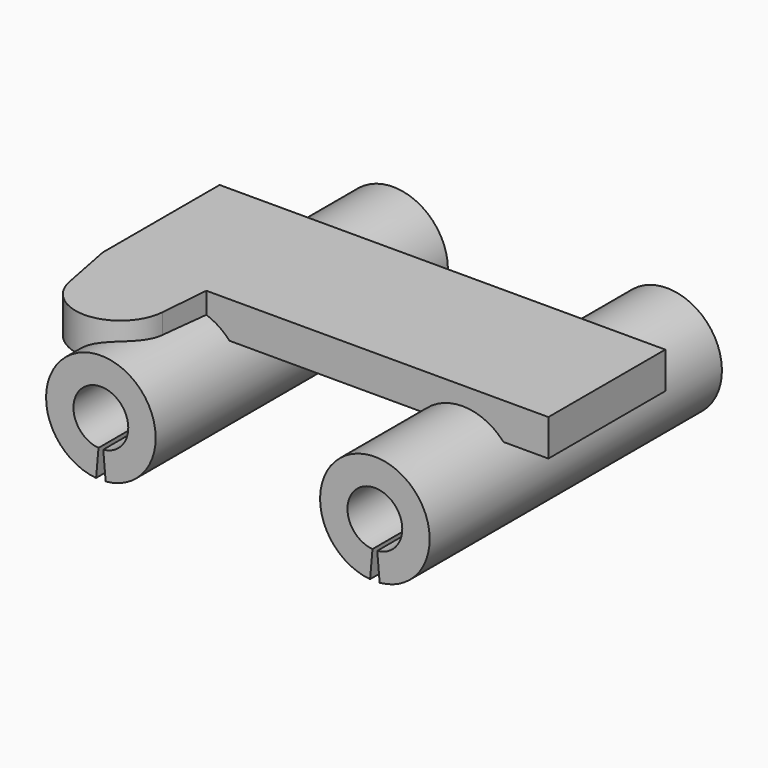
from build123d import *

# Parameters (mm, degrees)
F1_DEPTH = 10
F3_DEPTH = 50


with BuildPart() as f1:
    # F0 (on Top) → F1 (new body)
    with BuildSketch(Plane.XY):
        Polygon((-32.629684, -20), (61, -20), (61, 20), (-61, 20), (-61, -20), align=None)
        with BuildLine():
            Line((-33.740249, -33.694233), (-32.629684, -20))
            Line((-32.629684, -20), (-61, -20))
            Line((-61, -20), (-58.073841, -35.047843))
            ThreePointArc((-58.073841, -35.047843), (-45.316841, -44.981014), (-33.740249, -33.694233))
        make_face()
    extrude(amount=F1_DEPTH)

    # F2 (on Front) → F3 (join, symmetric)
    with BuildSketch(Plane.XZ):
        with BuildLine():
            ThreePointArc((36.846332, -17.47146), (37.5, -2.5), (38.153668, -17.47146))
            Line((38.153668, -17.47146), (38.807336, -24.94292))
            ThreePointArc((38.807336, -24.94292), (37.5, 5), (36.192664, -24.94292))
            Line((36.192664, -24.94292), (36.846332, -17.47146))
        make_face()
        with BuildLine():
            Line((-38.807336, -24.94292), (-38.153668, -17.47146))
            ThreePointArc((-38.153668, -17.47146), (-37.5, -2.5), (-36.846332, -17.47146))
            Line((-36.846332, -17.47146), (-36.192664, -24.94292))
            ThreePointArc((-36.192664, -24.94292), (-37.5, 5), (-38.807336, -24.94292))
        make_face()
    extrude(amount=F3_DEPTH, both=True)


solid = f1.part
